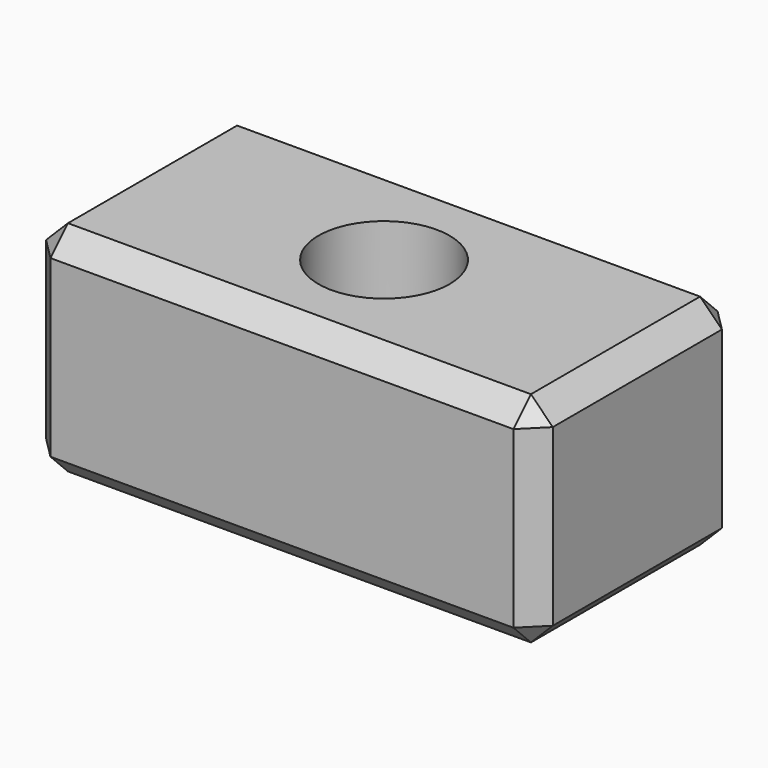
from build123d import *

# Parameters (mm, degrees)
F0_W     = 588.878934
F0_H     = 296.51298
F0_R     = 76.2
F1_DEPTH = 254
F2_SIZE  = 25.4


with BuildPart() as f1:
    # F0 (on Top) → F1 (new body)
    with BuildSketch(Plane.XY):
        Rectangle(F0_W, F0_H)
        Circle(F0_R, mode=Mode.SUBTRACT)
    extrude(amount=F1_DEPTH)

    # F2
    f2_edges = [f1.edges().sort_by_distance(p)[0] for p in [
        (0, -148.25649, 254),
        (294.439467, 0, 254),
        (0, 148.25649, 254),
        (-294.439467, 0, 254),
        (294.439467, 148.25649, 127),
        (294.439467, -148.25649, 127),
        (-294.439467, -148.25649, 127),
        (-294.439467, 148.25649, 127),
        (0, 148.25649, 0),
        (294.439467, 0, 0),
        (0, -148.25649, 0),
        (-294.439467, 0, 0),
    ]]
    chamfer(f2_edges, length=F2_SIZE)


solid = f1.part
